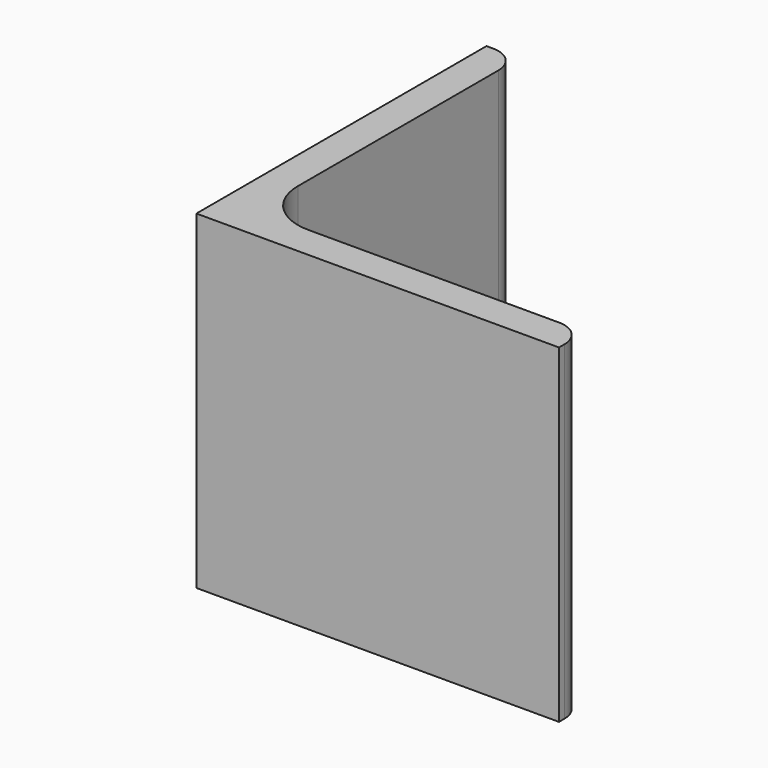
from build123d import *

# Parameters (mm, degrees)
EXTRUDE_DEPTH = 50


with BuildPart() as part:
    # Sketch → Extrude (new body)
    with BuildSketch(Plane.XY):
        with BuildLine():
            Line((0, 0), (55, 0))
            Line((55, 0), (55, 1))
            ThreePointArc((55, 1), (53.828427, 3.828427), (51, 5))
            Line((51, 5), (13, 5))
            ThreePointArc((5, 13), (7.343146, 7.343146), (13, 5))
            Line((5, 51), (5, 13))
            ThreePointArc((5, 51), (3.828427, 53.828427), (1, 55))
            Line((0, 55), (1, 55))
            Line((0, 0), (0, 55))
        make_face()
    extrude(amount=EXTRUDE_DEPTH)


solid = part.part
